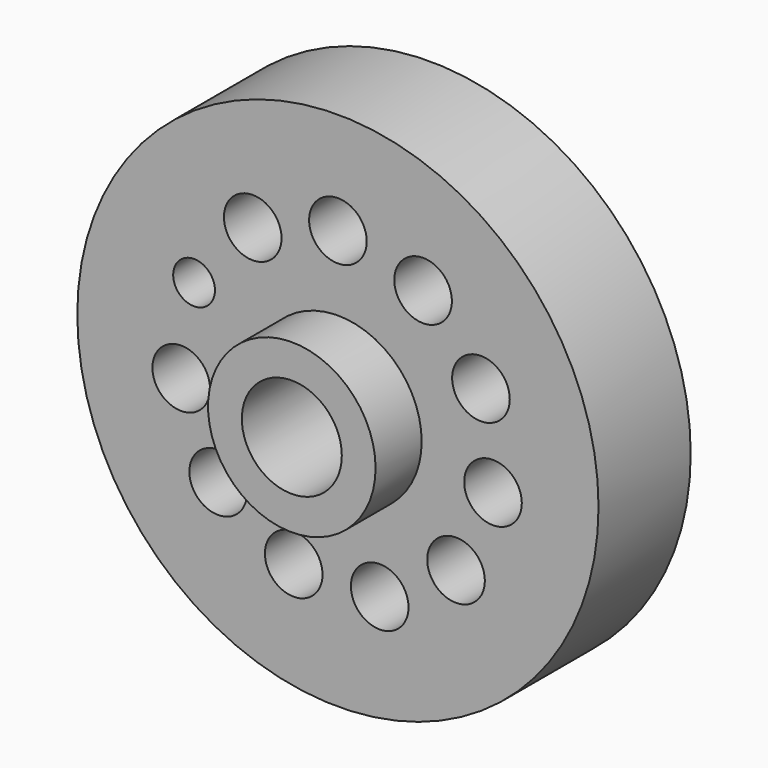
from build123d import *

# Parameters (mm, degrees)
F1_R     = 57.453479
F1_R_2   = 6.35
F1_R_3   = 4.598881
F1_R_4   = 18.389548
F2_DEPTH = 25.4
F3_R     = 18.464557
F3_R_2   = 11.018284
F4_DEPTH = 38.1


with BuildPart() as f2:
    # F1 (on face) → F2 (new body)
    with BuildSketch(Plane.XZ):
        Circle(F1_R)
        with Locations((-9.742823, -32.948455)):
            Circle(F1_R_2, mode=Mode.SUBTRACT)
        with Locations((-34.542736, -4.959983)):
            Circle(F1_R_2, mode=Mode.SUBTRACT)
        with Locations((-26.394194, -22.497064)):
            Circle(F1_R_2, mode=Mode.SUBTRACT)
        with Locations((9.211395, -33.125599)):
            Circle(F1_R_2, mode=Mode.SUBTRACT)
        with Locations((26.039909, -22.497064)):
            Circle(F1_R_2, mode=Mode.SUBTRACT)
        with Locations((34.188454, -4.78284)):
            Circle(F1_R_2, mode=Mode.SUBTRACT)
        with Locations((-31.708459, 14.525663)):
            Circle(F1_R_3, mode=Mode.SUBTRACT)
        with Locations((-18.777077, 29.405612)):
            Circle(F1_R_2, mode=Mode.SUBTRACT)
        Circle(F1_R_4, mode=Mode.SUBTRACT)
        with Locations((31.531318, 14.525663)):
            Circle(F1_R_2, mode=Mode.SUBTRACT)
        with Locations((0, 34.897018)):
            Circle(F1_R_2, mode=Mode.SUBTRACT)
        with Locations((18.777075, 29.405612)):
            Circle(F1_R_2, mode=Mode.SUBTRACT)
    extrude(amount=F2_DEPTH)

    # F3 (on Front) → F4 (join)
    with BuildSketch(Plane.XZ):
        Circle(F3_R)
        Circle(F3_R_2, mode=Mode.SUBTRACT)
    extrude(amount=F4_DEPTH)


solid = f2.part
